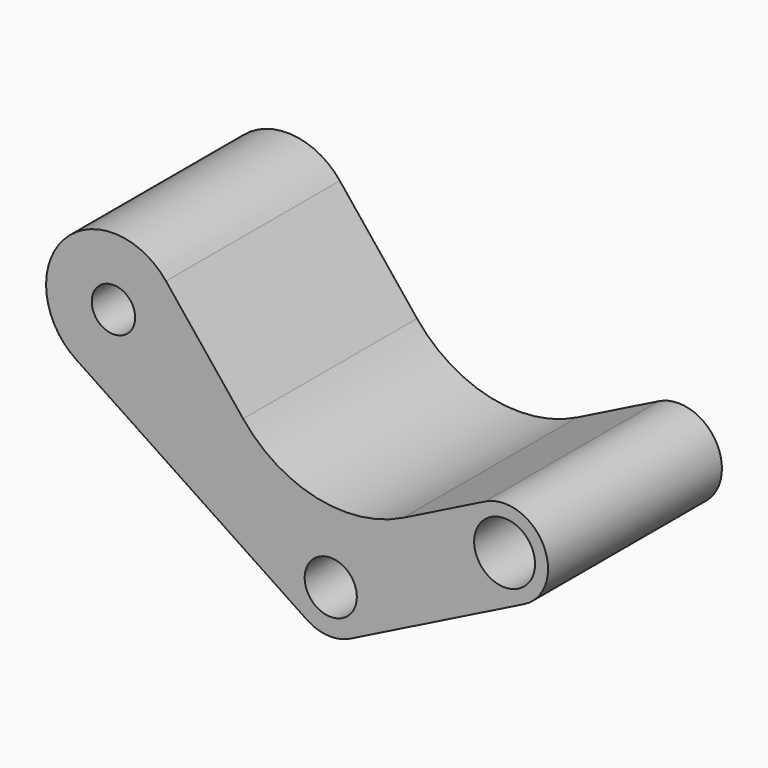
from build123d import *

# Parameters (mm, degrees)
F0_R     = 5
F0_R_2   = 6
F0_R_3   = 7
F1_DEPTH = 25


with BuildPart() as f1:
    # F0 (on Front) → F1 (new body, symmetric)
    with BuildSketch(Plane.XZ):
        with BuildLine():
            ThreePointArc((-5.553130951, -8.3164136887), (-4.7153308734, 8.8184836993), (10, 0))
            ThreePointArc((10, 0), (8.5065080835, -5.2573111212), (4.472135955, -8.94427191))
            Line((4.472135955, -8.94427191), (44.472135955, 11.05572809))
            ThreePointArc((44.472135955, 11.05572809), (31.05572809, 15.527864045), (35.527864045, 28.94427191))
            Line((35.527864045, 28.94427191), (16.6647048429, 19.512692309))
            ThreePointArc((16.6647048429, 19.512692309), (-3.1646914629, 17.0389630488), (-20.1486854537, 27.5683620073))
            Line((-20.1486854537, 27.5683620073), (-37.911559077, 49.7015254497))
            ThreePointArc((-37.911559077, 49.7015254497), (-35.3777424057, 45.1419434893), (-34.5, 40))
            ThreePointArc((-34.5, 40), (-42.6912371463, 26.3313502661), (-58.607352974, 27.1095587825))
            Line((-58.607352974, 27.1095587825), (-5.553130951, -8.3164136887))
        make_face()
        with BuildLine():
            ThreePointArc((-37.911559077, 49.7015254497), (-61.4292927515, 50.4700175358), (-58.607352974, 27.1095587825))
            ThreePointArc((-58.607352974, 27.1095587825), (-42.6912371463, 26.3313502661), (-34.5, 40))
            ThreePointArc((-34.5, 40), (-35.3777424057, 45.1419434893), (-37.911559077, 49.7015254497))
        make_face()
        with Locations((-50, 40)):
            Circle(F0_R, mode=Mode.SUBTRACT)
        with BuildLine():
            ThreePointArc((4.472135955, -8.94427191), (8.5065080835, -5.2573111212), (10, 0))
            ThreePointArc((10, 0), (-4.7153308734, 8.8184836993), (-5.553130951, -8.3164136887))
            ThreePointArc((-5.553130951, -8.3164136887), (-0.6250512234, -9.9804464313), (4.472135955, -8.94427191))
        make_face()
        Circle(F0_R_2, mode=Mode.SUBTRACT)
        with BuildLine():
            ThreePointArc((35.527864045, 28.94427191), (31.05572809, 15.527864045), (44.472135955, 11.05572809))
            ThreePointArc((44.472135955, 11.05572809), (48.5065080835, 14.7426888788), (50, 20))
            ThreePointArc((50, 20), (45.2573111212, 28.5065080835), (35.527864045, 28.94427191))
        make_face()
        with Locations((40, 20)):
            Circle(F0_R_3, mode=Mode.SUBTRACT)
    extrude(amount=F1_DEPTH, both=True)


solid = f1.part
